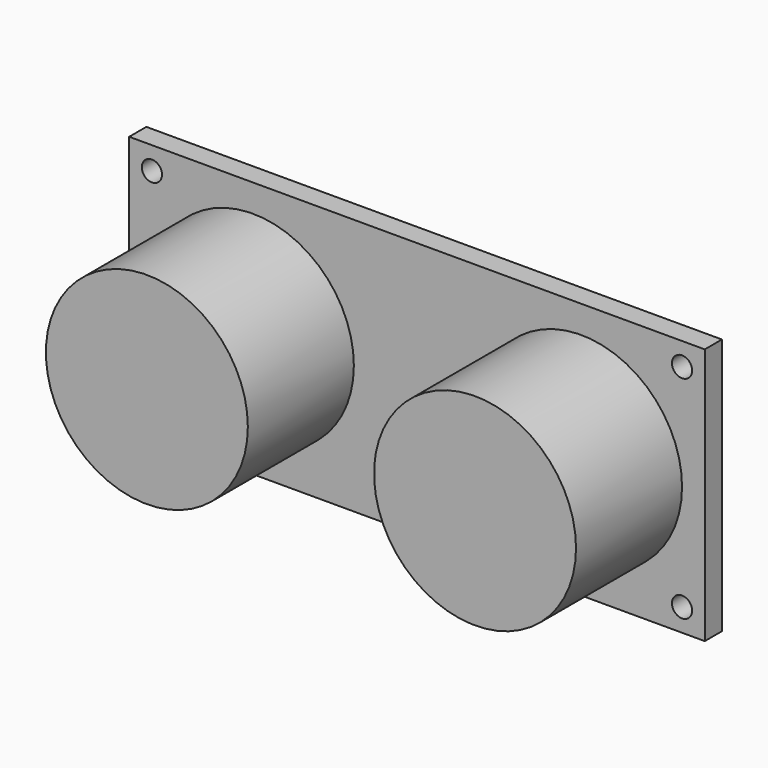
from build123d import *

# Parameters (mm, degrees)
F0_W     = 45.6
F0_H     = 20.35
F0_R     = 0.8
F0_R_2   = 8
F1_DEPTH = 1.7
F2_DEPTH = 12.2


with BuildPart() as f1:
    # F0 (on Front) → F1 (new body)
    with BuildSketch(Plane.XZ):
        Rectangle(F0_W, F0_H)
        with Locations((-21, -8.375)):
            Circle(F0_R, mode=Mode.SUBTRACT)
        with Locations((21, -8.375)):
            Circle(F0_R, mode=Mode.SUBTRACT)
        with Locations((-13, 0)):
            Circle(F0_R_2, mode=Mode.SUBTRACT)
        with Locations((-21, 8.375)):
            Circle(F0_R, mode=Mode.SUBTRACT)
        with Locations((13, 0)):
            Circle(F0_R_2, mode=Mode.SUBTRACT)
        with Locations((21, 8.375)):
            Circle(F0_R, mode=Mode.SUBTRACT)
    extrude(amount=F1_DEPTH)

    # F0 (on Front) → F2 (join)
    with BuildSketch(Plane.XZ):
        with Locations((-13, 0)):
            Circle(F0_R_2)
        with Locations((13, 0)):
            Circle(F0_R_2)
    extrude(amount=F2_DEPTH)


solid = f1.part
